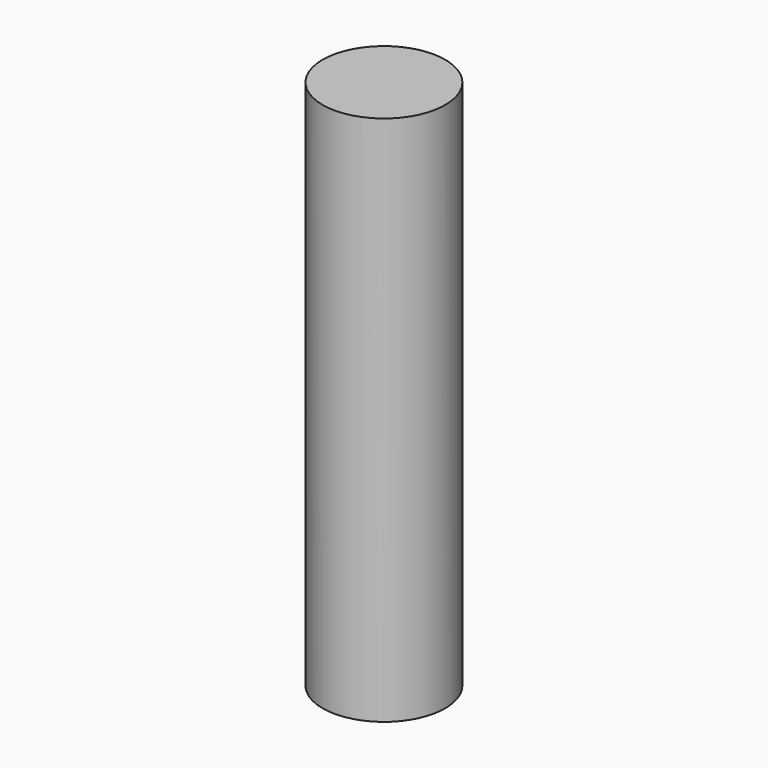
from build123d import *

# Parameters (mm, degrees)
F0_W          = 15
F0_H          = 130
F2_R          = 5
F3_DEPTH      = 93.5532969241
F3_DEPTH_BACK = 25
F4_R          = 11
F5_DEPTH      = 3.5


with BuildPart() as f1:
    # F0 (on Front) → F1 (revolve)
    with BuildSketch(Plane.XZ):
        with Locations((-7.6752220338, -28.5522969241)):
            Rectangle(F0_W, F0_H)
    revolve(axis=Axis((-0.1752220338, 0, -28.5522969241), (0, 0, -1)))

    # F2 (on Top) → F3 (cut, two sides)
    with BuildSketch(Plane.XY) as f3_sk:
        Circle(F2_R)
    extrude(amount=-F3_DEPTH, mode=Mode.SUBTRACT)
    extrude(f3_sk.sketch, amount=F3_DEPTH_BACK, mode=Mode.SUBTRACT)

    # F4 (on face) → F5 (cut)
    with BuildSketch(Plane(origin=(0, 0, -93.5522969241), x_dir=(1, 0, 0), z_dir=(0, 0, -1))):
        with Locations((-0.1752220338, 0)):
            Circle(F4_R)
    extrude(amount=-F5_DEPTH, mode=Mode.SUBTRACT)


solid = f1.part
